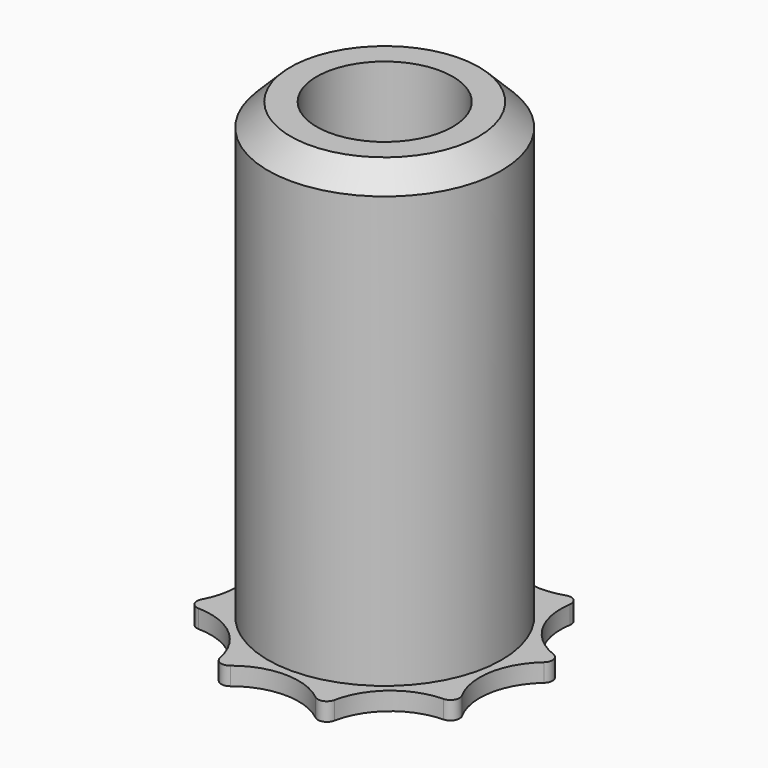
from build123d import *

# Parameters (mm, degrees)
SKETCH_R     = 5.15
SKETCH_R_2   = 3
PAD_DEPTH    = 20
SKETCH001_R  = 3
PAD001_DEPTH = 0.8
FILLET_R     = 0.4
FILLET001_R  = 0.4
FILLET002_R  = 0.4
CHAMFER_SIZE = 1


with BuildPart() as part:
    # Sketch → Pad (new body)
    with BuildSketch(Plane.XY):
        Circle(SKETCH_R)
        Circle(SKETCH_R_2, mode=Mode.SUBTRACT)
    extrude(amount=PAD_DEPTH)

    # Sketch001 (on Face3 of Pad) → Pad001 (join)
    with BuildSketch(Plane(origin=(0, 0, 0), x_dir=(1, 0, 0), z_dir=(0, 0, -1))):
        with BuildLine():
            ThreePointArc((2.478578, 6.809837), (3.535332, 4.213244), (6.27598, 3.623438))
            ThreePointArc((6.27598, 3.623438), (5.416443, 0.955065), (7.136781, -1.258407))
            ThreePointArc((7.136781, -1.258407), (4.76314, -2.75), (4.658203, -5.55143))
            ThreePointArc((4.658203, -5.55143), (1.881111, -5.168309), (0, -7.246877))
            ThreePointArc((0, -7.246877), (-1.881111, -5.168309), (-4.658203, -5.55143))
            ThreePointArc((-4.658203, -5.55143), (-4.76314, -2.75), (-7.136781, -1.258407))
            ThreePointArc((-7.136781, -1.258407), (-5.416443, 0.955065), (-6.27598, 3.623438))
            ThreePointArc((-6.27598, 3.623438), (-3.535332, 4.213244), (-2.478578, 6.809837))
            ThreePointArc((-2.478578, 6.809837), (0, 5.5), (2.478578, 6.809837))
        make_face()
        Circle(SKETCH001_R, mode=Mode.SUBTRACT)
    extrude(amount=PAD001_DEPTH)

    # Fillet
    fillet_edges = [part.edges().sort_by_distance(p)[0] for p in [
        (-2.478578, -6.809837, -0.4),
    ]]
    fillet(fillet_edges, radius=FILLET_R)

    # Fillet001
    fillet001_edges = [part.edges().sort_by_distance(p)[0] for p in [
        (2.478578, -6.809837, -0.4),
        (6.27598, -3.623438, -0.4),
        (-6.27598, -3.623438, -0.4),
        (-7.136781, 1.258407, -0.4),
        (-4.658203, 5.55143, -0.4),
        (0, 7.246877, -0.4),
    ]]
    fillet(fillet001_edges, radius=FILLET001_R)

    # Fillet002
    fillet002_edges = [part.edges().sort_by_distance(p)[0] for p in [
        (4.658203, 5.55143, -0.4),
        (7.136781, 1.258407, -0.4),
    ]]
    fillet(fillet002_edges, radius=FILLET002_R)

    # Chamfer
    chamfer_edges = [part.edges().sort_by_distance(p)[0] for p in [
        (-5.15, 0, 20),
    ]]
    chamfer(chamfer_edges, length=CHAMFER_SIZE)


solid = part.part
